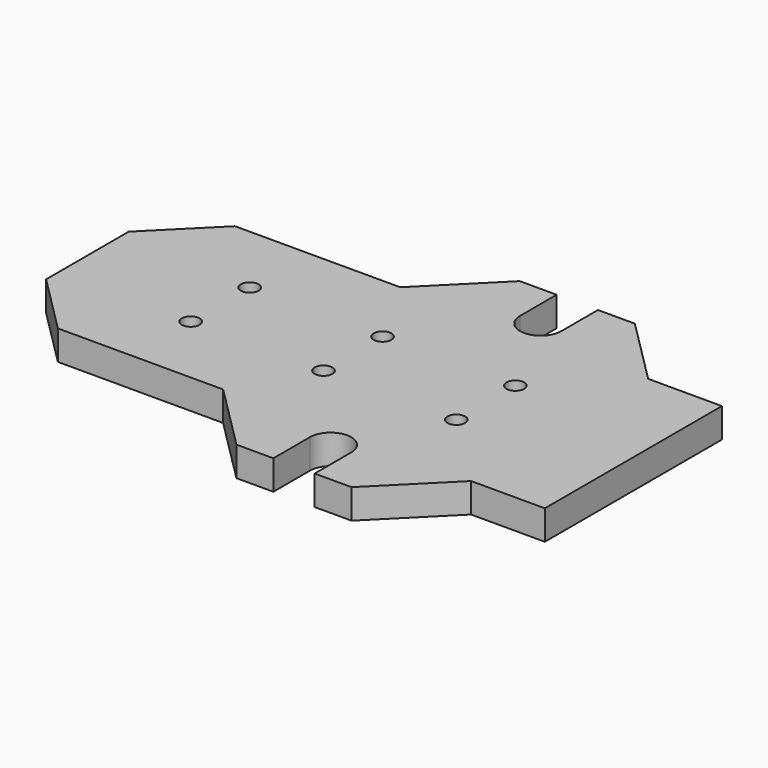
from build123d import *

# Parameters (mm, degrees)
F1_DEPTH       = 10
F2_D           = 6
F2_CBORE_D     = 11
F2_CBORE_DEPTH = 6


with BuildPart() as f1:
    # F0 (on Top) → F1 (new body)
    with BuildSketch(Plane.XY):
        with BuildLine():
            Line((-118, 17.5), (-118, 0))
            Line((-118, 0), (67, 0))
            Line((67, 0), (67, 37.5))
            Line((67, 37.5), (42, 37.5))
            Line((42, 37.5), (19.5, 60))
            Line((19.5, 60), (7, 60))
            Line((7, 60), (7, 44.5))
            ThreePointArc((7, 44.5), (0, 37.5), (-7, 44.5))
            Line((-7, 44.5), (-7, 60))
            Line((-7, 60), (-19.5, 60))
            Line((-19.5, 60), (-42, 37.5))
            Line((-42, 37.5), (-98, 37.5))
            Line((-98, 37.5), (-118, 17.5))
        make_face()
    extrude(amount=F1_DEPTH)

    # F2 (through all)
    with Locations(Plane(origin=(0, 0, 0), x_dir=(1, 0, 0), z_dir=(0, 0, -1))):
        with Locations((-73, -12.5), (-28, -12.5), (17, -12.5)):
            CounterBoreHole(F2_D / 2, F2_CBORE_D / 2, F2_CBORE_DEPTH)

    # F3: F1 across plane


with BuildPart() as f1_1:
    add(f1.part)
    add(f1.part.mirror(Plane.XZ))


solid = f1_1.part
